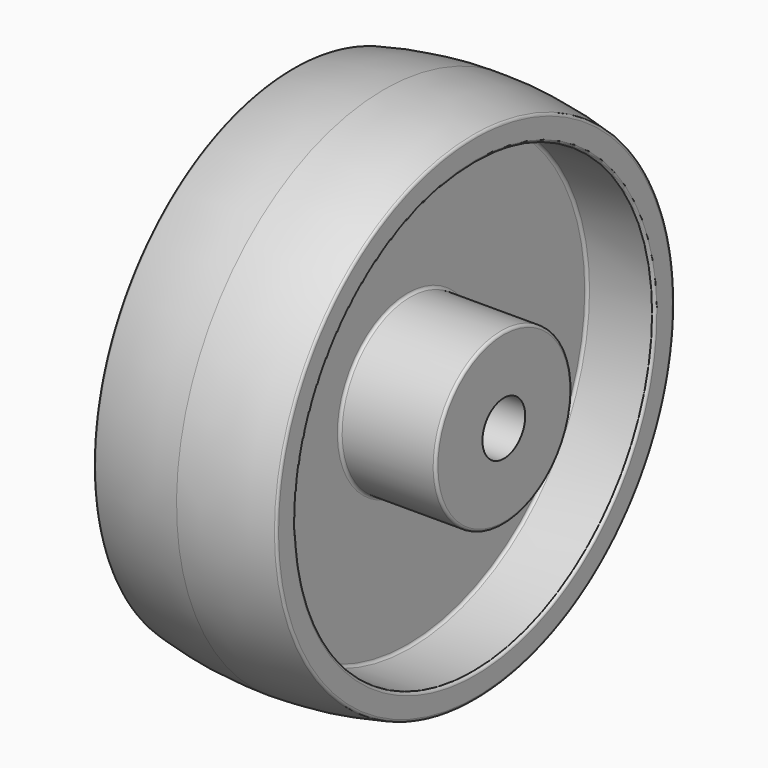
from build123d import *

# Parameters (mm, degrees)
F2_R = 0.5
F3_R = 0.5


with BuildPart() as f1:
    # F0 (on Front) → F1 (revolve)
    with BuildSketch(Plane.XZ):
        with BuildLine():
            Line((-22.4, 5), (0, 5))
            Line((0, 5), (22.4, 5))
            Line((22.4, 5), (22.4, 15.903508))
            Line((22.4, 15.903508), (4.4, 15.903508))
            Line((4.4, 15.903508), (4.4, 41.903508))
            Line((4.4, 41.903508), (17.091401, 41.903508))
            Line((17.091401, 41.903508), (17.091401, 46.403508))
            ThreePointArc((17.091401, 46.403508), (8.608383, 47.957041), (0, 48.477411))
            ThreePointArc((0, 48.477411), (-8.608383, 47.957041), (-17.091401, 46.403508))
            Line((-17.091401, 46.403508), (-17.091401, 41.903508))
            Line((-17.091401, 41.903508), (-4.4, 41.903508))
            Line((-4.4, 41.903508), (-4.4, 15.903508))
            Line((-4.4, 15.903508), (-22.4, 15.903508))
            Line((-22.4, 15.903508), (-22.4, 5))
        make_face()
    revolve(axis=Axis((8.412167, 0, 0), (1, 0, 0)))

    # F2
    f2_edges = [f1.edges().sort_by_distance(p)[0] for p in [
        (-17.091401, 0, -46.403508),
        (17.091401, 0, -46.403508),
        (-17.091401, 0, -41.903508),
        (17.091401, 0, -41.903508),
        (4.4, 0, -41.903508),
        (4.4, 0, -15.903508),
        (-4.4, 0, -41.903508),
        (-4.4, 0, -15.903508),
    ]]
    fillet(f2_edges, radius=F2_R)

    # F3
    f3_edges = [f1.edges().sort_by_distance(p)[0] for p in [
        (22.4, 0, -15.903508),
        (-22.4, 0, -15.903508),
    ]]
    fillet(f3_edges, radius=F3_R)


solid = f1.part
